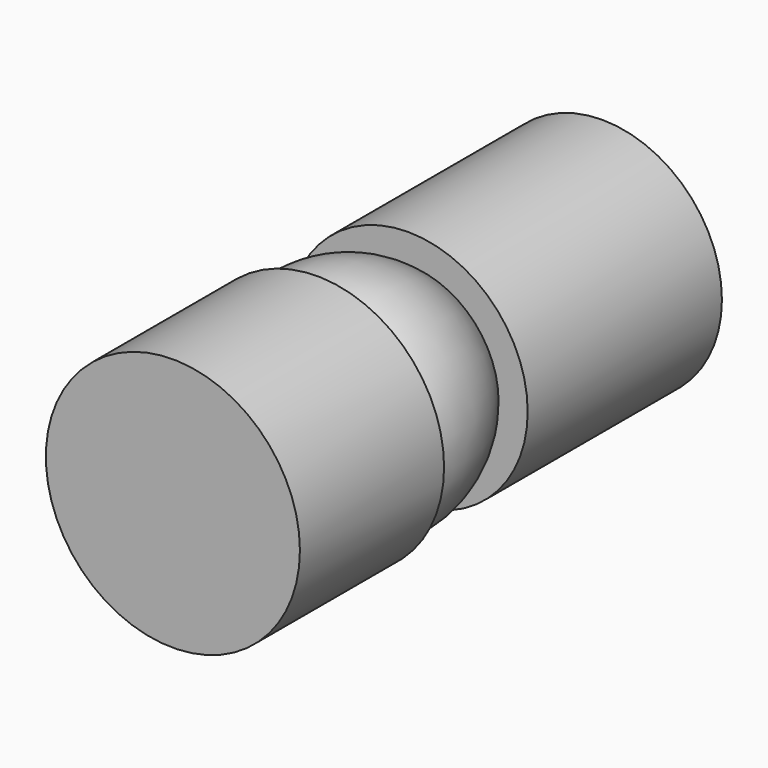
from build123d import *


with BuildPart() as f1:
    # F0 (on Top) → F1 (revolve)
    with BuildSketch(Plane.XY):
        with BuildLine():
            Line((13.393199, 15.390105), (17.707892, 15.390105))
            Line((17.707892, 15.390105), (17.707892, 51.362158))
            Line((17.707892, 51.362158), (0, 51.362158))
            Line((0, 51.362158), (0, -1.483383))
            Line((0, -1.483383), (0, -28.184287))
            Line((0, -28.184287), (18.820429, -28.184287))
            Line((18.820429, -28.184287), (18.820429, -1.483383))
            Line((18.820429, -1.483383), (16.435054, -1.483383))
            ThreePointArc((16.435054, -1.483383), (17.135046, 7.353735), (13.393199, 15.390105))
        make_face()
    revolve(axis=Axis((0, 7.880475, 0), (0, -1, 0)))


solid = f1.part
